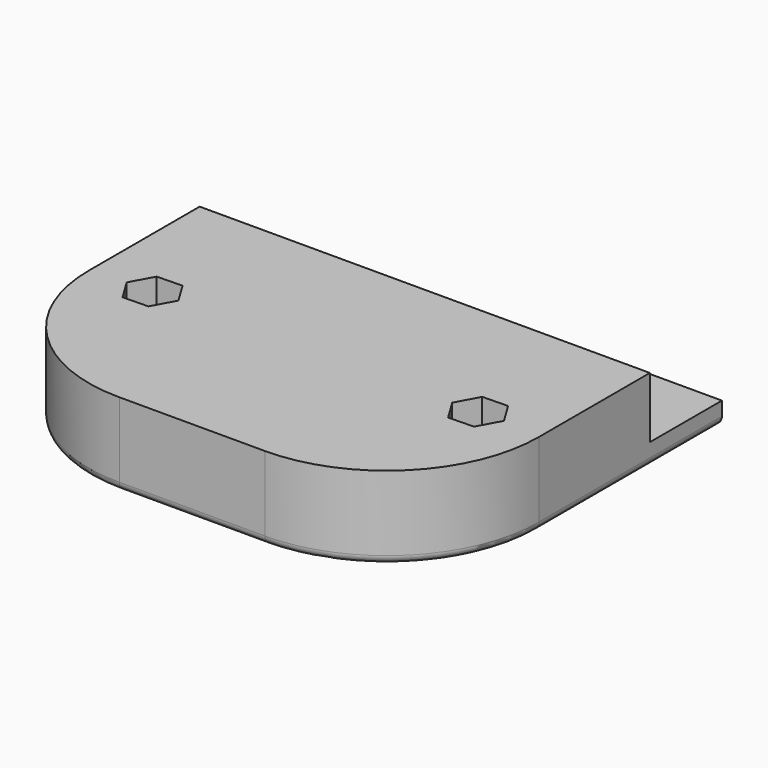
from build123d import *

# Parameters (mm, degrees)
F0_W     = 65
F0_H     = 15
F0_R     = 2.85
F1_DEPTH = 12
F2_W     = 65
F2_H     = 13
F3_DEPTH = 8.8
F4_R     = 1.2
F5_R     = 1.05
F6_DEPTH = 15
F8_DEPTH = 6.9


with BuildPart() as f1:
    # F0 (on Top) → F1 (new body)
    with BuildSketch(Plane.XY):
        with Locations((0.397058, -10.369431)):
            Rectangle(F0_W, F0_H)
        with Locations((-20.602942, -9.369431)):
            Circle(F0_R, mode=Mode.SUBTRACT)
        with Locations((21.397058, -9.369431)):
            Circle(F0_R, mode=Mode.SUBTRACT)
        with BuildLine():
            Line((32.897058, -17.869431), (-32.102942, -17.869431))
            Line((-32.102942, -17.869431), (-32.102942, -35.869431))
            ThreePointArc((-32.102942, -35.869431), (-25.659291, -51.42578), (-10.102942, -57.869431))
            Line((-10.102942, -57.869431), (10.897058, -57.869431))
            ThreePointArc((10.897058, -57.869431), (26.453407, -51.42578), (32.897058, -35.869431))
            Line((32.897058, -35.869431), (32.897058, -17.869431))
        make_face()
    extrude(amount=F1_DEPTH)

    # F2 (on face) → F3 (cut)
    with BuildSketch(Plane.XY.offset(12)):
        with Locations((0.397058, -9.369431)):
            Rectangle(F2_W, F2_H)
    extrude(amount=-F3_DEPTH, mode=Mode.SUBTRACT)

    # F4
    f4_edges = [f1.edges().sort_by_distance(p)[0] for p in [
        (-32.102942, -19.369431, 0),
        (0.397058, -57.869431, 0),
        (32.897058, -19.369431, 0),
    ]]
    fillet(f4_edges, radius=F4_R)

    # F5 (on face) → F6 (cut)
    with BuildSketch(Plane(origin=(0, 0, 0), x_dir=(1, 0, 0), z_dir=(0, 0, -1))):
        with Locations((23.697058, 35.369431)):
            Circle(F5_R)
        with Locations((-23.302942, 35.369431)):
            Circle(F5_R)
    extrude(amount=-F6_DEPTH, mode=Mode.SUBTRACT)

    # F7 (on face) → F8 (cut)
    with BuildSketch(Plane.XY.offset(12)):
        Polygon((25.605654, -38.499621), (27.362181, -35.281633), (25.453585, -32.151443), (21.788462, -32.23924), (20.031935, -35.457228), (21.940531, -38.587419), align=None)
        Polygon((-21.394346, -38.499621), (-19.637819, -35.281633), (-21.546415, -32.151443), (-25.211538, -32.23924), (-26.968065, -35.457228), (-25.059469, -38.587419), align=None)
    extrude(amount=-F8_DEPTH, mode=Mode.SUBTRACT)


solid = f1.part
